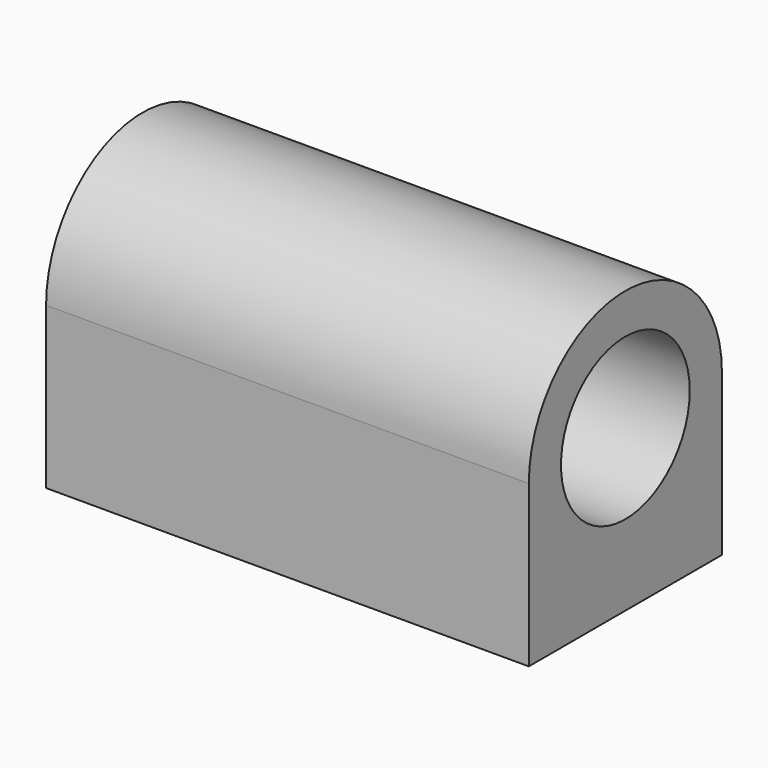
from build123d import *

# Parameters (mm, degrees)
F0_R     = 12.7
F1_DEPTH = 76.2
F2_R     = 1.651
F3_DEPTH = 12.7


with BuildPart() as f1:
    # F0 (on Right) → F1 (new body)
    with BuildSketch(Plane.YZ):
        with BuildLine():
            Line((19.05, -25.4), (19.05, 0))
            ThreePointArc((19.05, 0), (0, 19.05), (-19.05, 0))
            Line((-19.05, 0), (-19.05, -25.4))
            Line((-19.05, -25.4), (19.05, -25.4))
        make_face()
        Circle(F0_R, mode=Mode.SUBTRACT)
    extrude(amount=F1_DEPTH)

    # F2 (on face) → F3 (join)
    with BuildSketch(Plane(origin=(0, 0, -25.4), x_dir=(1, 0, 0), z_dir=(0, 0, -1))):
        with Locations((6.35, 12.7)):
            Circle(F2_R)
        with Locations((69.85, 12.7)):
            Circle(F2_R)
        with Locations((69.85, -12.7)):
            Circle(F2_R)
        with Locations((6.35, -12.7)):
            Circle(F2_R)
    extrude(amount=-F3_DEPTH)


solid = f1.part
